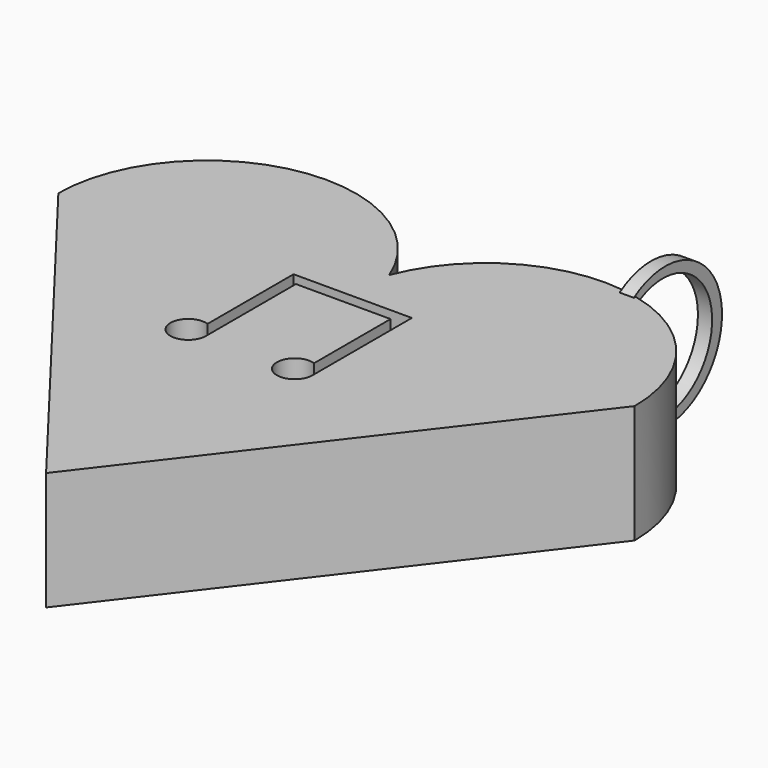
from build123d import *

# Parameters (mm, degrees)
F1_DEPTH = 6.35
F3_DEPTH = 1.905
F7_DEPTH = 0.381
F8_DEPTH = 0.381


with BuildPart() as f1:
    # F0 (on Top) → F1 (new body)
    with BuildSketch(Plane.XY):
        with BuildLine():
            Line((-15.4625402968, 20.1511748434), (0, 0))
            Line((0, 0), (15.4625402968, 20.1511748434))
            ThreePointArc((15.4625402968, 20.1511748434), (8.9216538352, 28.0088478457), (0, 23.0158213526))
            ThreePointArc((0, 23.0158213526), (-8.9175015723, 27.9864351215), (-15.4625402968, 20.1511748434))
        make_face()
    extrude(amount=F1_DEPTH)

    # F2 (on face) → F3 (cut)
    with BuildSketch(Plane.XY.offset(6.35)):
        with BuildLine():
            Line((2.54, 13.0019117156), (2.54, 14.7979629398))
            ThreePointArc((2.54, 14.7979629398), (1.27, 13.8999373277), (2.54, 13.0019117156))
        make_face()
        with BuildLine():
            ThreePointArc((2.54, 13.0019117156), (3.0002129933, 13.3500111963), (3.175, 13.8999373277))
            ThreePointArc((3.175, 13.8999373277), (3.0002129933, 14.4498634591), (2.54, 14.7979629398))
            Line((2.54, 14.7979629398), (2.54, 13.0019117156))
        make_face()
        with BuildLine():
            Line((3.175, 13.8999373277), (3.175, 19.9324373277))
            Line((3.175, 19.9324373277), (2.54, 19.9324373277))
            Line((2.54, 19.9324373277), (2.54, 14.7979629398))
            ThreePointArc((2.54, 14.7979629398), (3.0002129933, 14.4498634591), (3.175, 13.8999373277))
        make_face()
        Polygon((3.175, 20.5674373277), (-3.175, 20.5674373277), (-3.175, 19.9324373277), (-2.54, 19.9324373277), (2.54, 19.9324373277), (3.175, 19.9324373277), align=None)
        with BuildLine():
            Line((-2.54, 19.9324373277), (-3.175, 19.9324373277))
            Line((-3.175, 19.9324373277), (-3.175, 14.7979629398))
            ThreePointArc((-3.175, 14.7979629398), (-2.7147870067, 14.4498634591), (-2.54, 13.8999373277))
            Line((-2.54, 13.8999373277), (-2.54, 19.9324373277))
        make_face()
        with BuildLine():
            ThreePointArc((-2.54, 13.8999373277), (-2.7147870067, 14.4498634591), (-3.175, 14.7979629398))
            Line((-3.175, 14.7979629398), (-3.175, 13.0019117156))
            ThreePointArc((-3.175, 13.0019117156), (-2.7147870067, 13.3500111963), (-2.54, 13.8999373277))
        make_face()
        with BuildLine():
            Line((-3.175, 13.0019117156), (-3.175, 14.7979629398))
            ThreePointArc((-3.175, 14.7979629398), (-4.445, 13.8999373277), (-3.175, 13.0019117156))
        make_face()
    extrude(amount=-F3_DEPTH, mode=Mode.SUBTRACT)

    # F6 (on offset) → F7 (join)
    with BuildSketch(Plane.YZ.offset(8.9154)):
        with BuildLine():
            ThreePointArc((27.804363519, 0), (33.7204202608, 3.175), (27.804363519, 6.35))
            Line((27.804363519, 6.35), (27.804363519, 5.842))
            ThreePointArc((27.804363519, 5.842), (33.0560059571, 3.175), (27.804363519, 0.508))
            Line((27.804363519, 0.508), (27.804363519, 0))
        make_face()
    extrude(amount=F7_DEPTH)

    # F6 (on offset) → F8 (join)
    with BuildSketch(Plane.YZ.offset(8.9154)):
        with BuildLine():
            ThreePointArc((27.804363519, 0), (33.7204202608, 3.175), (27.804363519, 6.35))
            Line((27.804363519, 6.35), (27.804363519, 5.842))
            ThreePointArc((27.804363519, 5.842), (33.0560059571, 3.175), (27.804363519, 0.508))
            Line((27.804363519, 0.508), (27.804363519, 0))
        make_face()
    extrude(amount=-F8_DEPTH)


solid = f1.part
